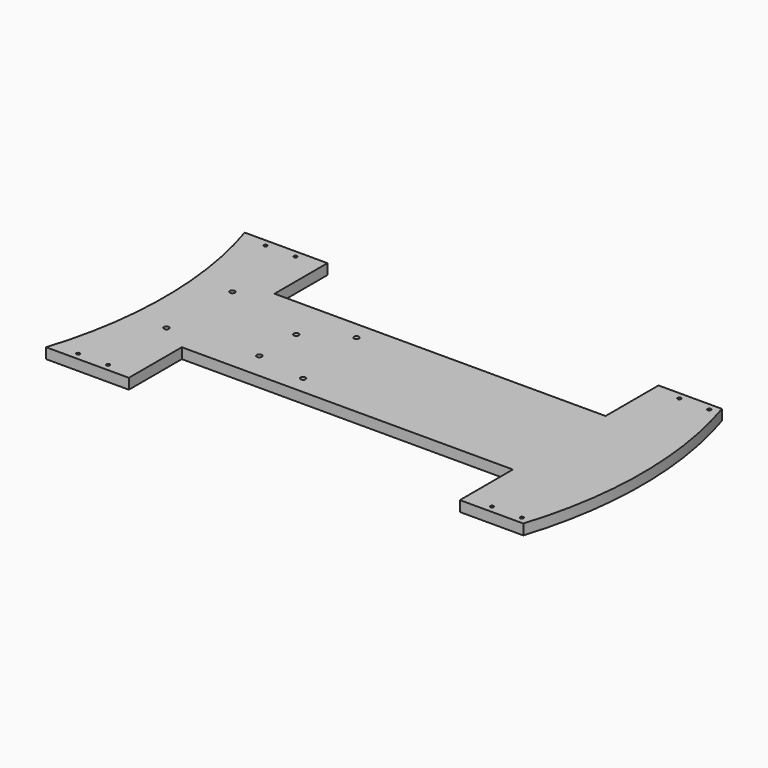
from build123d import *

# Parameters (mm, degrees)
F0_R     = 1
F0_R_2   = 1.524
F1_DEPTH = 6.35


with BuildPart() as f1:
    # F0 (on Top) → F1 (new body)
    with BuildSketch(Plane.XY):
        with BuildLine():
            ThreePointArc((-196.395448, 36.447306), (-184.695448, -38.552694), (-196.395448, -113.552694))
            Line((-196.395448, -113.552694), (-146.395448, -113.552694))
            Line((-146.395448, -113.552694), (-146.395448, -73.552694))
            Line((-146.395448, -73.552694), (53.604552, -73.552694))
            Line((53.604552, -73.552694), (53.604552, -113.552694))
            Line((53.604552, -113.552694), (91.904552, -113.552694))
            ThreePointArc((91.904552, -113.552694), (103.604552, -38.552694), (91.904552, 36.447306))
            Line((91.904552, 36.447306), (65.304552, 36.447306))
            Line((65.304552, 36.447306), (53.604552, 36.447306))
            Line((53.604552, 36.447306), (53.604552, -3.552694))
            Line((53.604552, -3.552694), (-146.395448, -3.552694))
            Line((-146.395448, -3.552694), (-146.395448, 36.447306))
            Line((-146.395448, 36.447306), (-158.095448, 36.447306))
            Line((-158.095448, 36.447306), (-184.695448, 36.447306))
            Line((-184.695448, 36.447306), (-196.395448, 36.447306))
        make_face()
        with Locations((-180.445448, -109.302694)):
            Circle(F0_R, mode=Mode.SUBTRACT)
        with Locations((-162.345448, -109.302694)):
            Circle(F0_R, mode=Mode.SUBTRACT)
        with Locations((-164.375448, -62.682694)):
            Circle(F0_R_2, mode=Mode.SUBTRACT)
        with Locations((-112.305448, -57.602694)):
            Circle(F0_R_2, mode=Mode.SUBTRACT)
        with Locations((-81.825448, -62.682694)):
            Circle(F0_R_2, mode=Mode.SUBTRACT)
        with Locations((69.554552, -109.302694)):
            Circle(F0_R, mode=Mode.SUBTRACT)
        with Locations((87.654552, -109.302694)):
            Circle(F0_R, mode=Mode.SUBTRACT)
        with Locations((-163.105448, -14.422694)):
            Circle(F0_R_2, mode=Mode.SUBTRACT)
        with Locations((-112.305448, -29.662694)):
            Circle(F0_R_2, mode=Mode.SUBTRACT)
        with Locations((-88.175448, -14.422694)):
            Circle(F0_R_2, mode=Mode.SUBTRACT)
        with Locations((-180.445448, 32.197306)):
            Circle(F0_R, mode=Mode.SUBTRACT)
        with Locations((-162.345448, 32.197306)):
            Circle(F0_R, mode=Mode.SUBTRACT)
        with Locations((69.554552, 32.197306)):
            Circle(F0_R, mode=Mode.SUBTRACT)
        with Locations((87.654552, 32.197306)):
            Circle(F0_R, mode=Mode.SUBTRACT)
    extrude(amount=F1_DEPTH)


solid = f1.part
